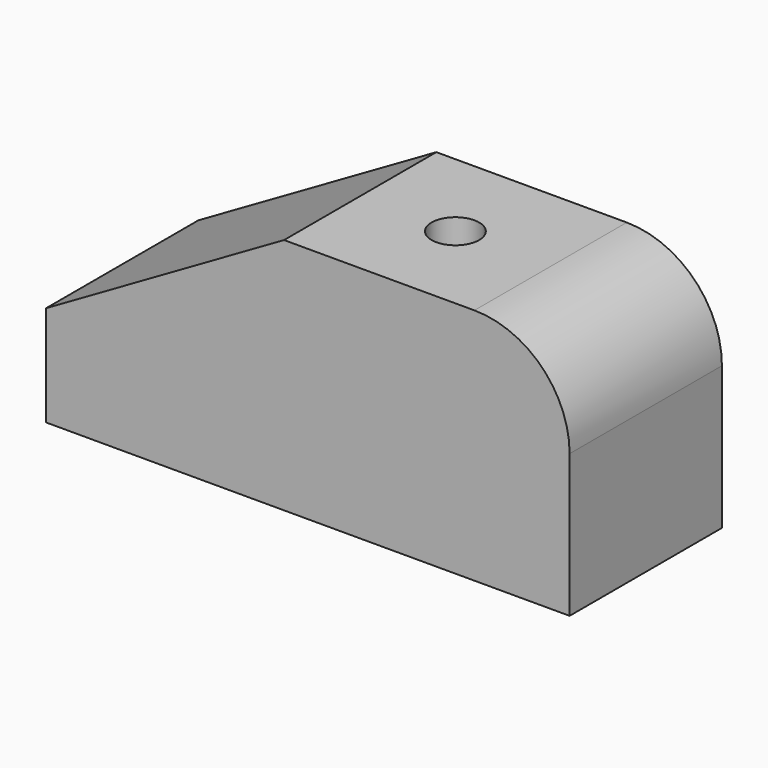
from build123d import *

# Parameters (mm, degrees)
PAD_DEPTH    = 40
SKETCH001_R  = 5
POCKET_DEPTH = 50.001


with BuildPart() as part:
    # Sketch → Pad (new body)
    with BuildSketch(Plane.XZ):
        with BuildLine():
            Line((0, 0), (110, 0))
            Line((110, 0), (110, 30))
            ThreePointArc((110, 30), (104.142136, 44.142136), (90, 50))
            Line((50, 50), (90, 50))
            Line((0, 21.132487), (50, 50))
            Line((0, 0), (0, 21.132487))
        make_face()
    extrude(amount=PAD_DEPTH)

    # Sketch001 (on Face4 of Pad) → Pocket (cut, through all)
    with BuildSketch(Plane(origin=(0, 0, 50), x_dir=(-1, 0, 0), z_dir=(0, 0, 1))):
        with Locations((-70, 20)):
            Circle(SKETCH001_R)
    extrude(amount=-POCKET_DEPTH, mode=Mode.SUBTRACT)


solid = part.part
